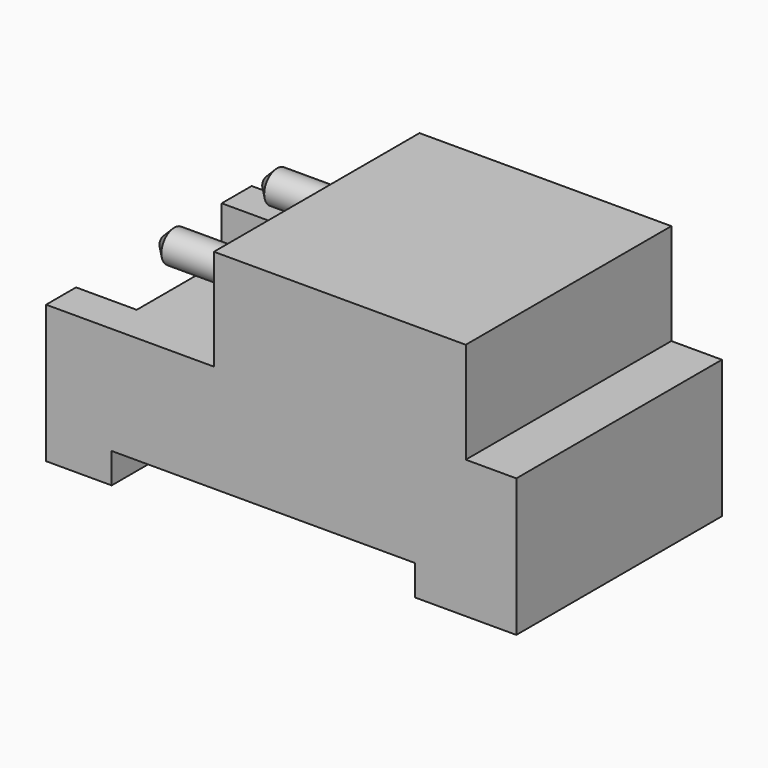
from build123d import *

# Parameters (mm, degrees)
F0_W      = 46.482
F0_H      = 25.4
F1_DEPTH  = 23.622
F2_W      = 16.59
F2_H      = 25.4
F2_W_2    = 5
F3_DEPTH  = 10
F4_W      = 6
F4_H      = 18
F5_DEPTH  = 13.623
F6_W      = 30
F6_H      = 3
F7_DEPTH  = 25.401
F8_R      = 1.5875
F9_DEPTH  = 10
F10_R     = 3
F11_DEPTH = 1
F12_SIZE  = 1


with BuildPart() as f1:
    # F0 (on Top) → F1 (new body)
    with BuildSketch(Plane.XY):
        Rectangle(F0_W, F0_H)
    extrude(amount=F1_DEPTH)

    # F2 (on face) → F3 (cut)
    with BuildSketch(Plane.XY.offset(23.622)):
        with Locations((-14.946, 0)):
            Rectangle(F2_W, F2_H)
        with Locations((20.741, 0)):
            Rectangle(F2_W_2, F2_H)
    extrude(amount=-F3_DEPTH, mode=Mode.SUBTRACT)

    # F4 (on face) → F5 (cut, through all)
    with BuildSketch(Plane.XY.offset(13.622)):
        with Locations((-20.241, 0)):
            Rectangle(F4_W, F4_H)
    extrude(amount=-F5_DEPTH, mode=Mode.SUBTRACT)

    # F6 (on face) → F7 (cut, through all)
    with BuildSketch(Plane(origin=(0, 12.7, 0), x_dir=(-1, 0, 0), z_dir=(0, 1, 0))):
        with Locations((1.759, 1.5)):
            Rectangle(F6_W, F6_H)
    extrude(amount=-F7_DEPTH, mode=Mode.SUBTRACT)

    # F8 (on face) → F9 (join)
    with BuildSketch(Plane(origin=(-6.651, 0, 0), x_dir=(0, -1, 0), z_dir=(-1, 0, 0))):
        with Locations((-6.35, 18.622)):
            Circle(F8_R)
        with Locations((6.35, 18.622)):
            Circle(F8_R)
    extrude(amount=F9_DEPTH)

    # F10 (on face) → F11 (join)
    with BuildSketch(Plane(origin=(-6.651, 0, 0), x_dir=(0, -1, 0), z_dir=(-1, 0, 0))):
        with Locations((-6.35, 18.622)):
            Circle(F10_R)
        with Locations((6.35, 18.622)):
            Circle(F10_R)
    extrude(amount=F11_DEPTH)

    # F12
    f12_edges = [f1.edges().sort_by_distance(p)[0] for p in [
        (-16.651, 7.9375, 18.622),
        (-16.651, -4.7625, 18.622),
    ]]
    chamfer(f12_edges, length=F12_SIZE)


solid = f1.part
